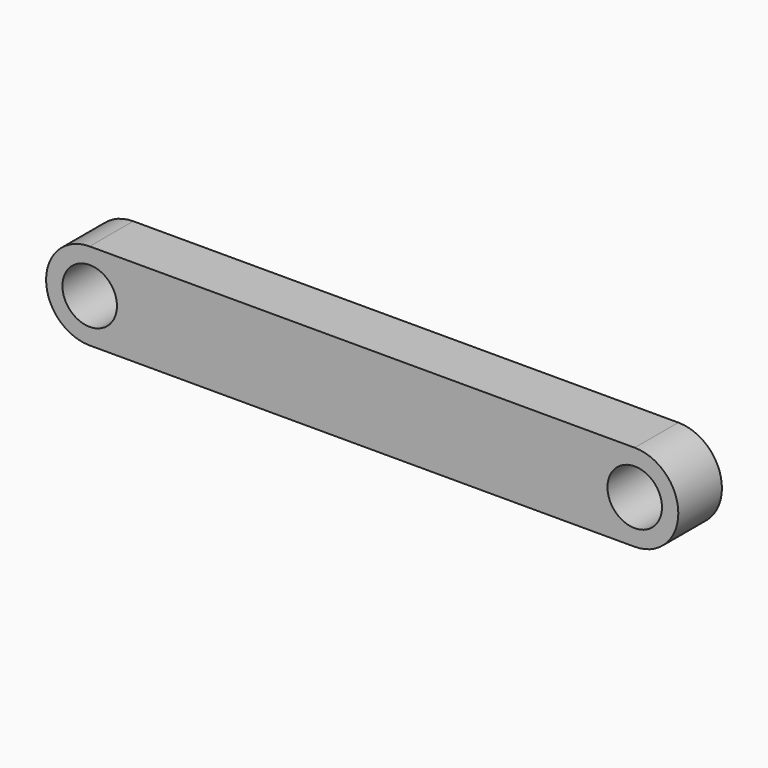
from build123d import *

# Parameters (mm, degrees)
F0_R     = 2.5
F1_DEPTH = 5


with BuildPart() as f1:
    # F0 (on Front) → F1 (new body)
    with BuildSketch(Plane.XZ):
        with BuildLine():
            Line((0, 4), (-25, 4))
            ThreePointArc((-25, 4), (-29, 0), (-25, -4))
            Line((-25, -4), (0, -4))
            Line((0, -4), (0, 4))
        make_face()
        with Locations((-25, 0)):
            Circle(F0_R, mode=Mode.SUBTRACT)
        with BuildLine():
            Line((25, 4), (0, 4))
            Line((0, 4), (0, -4))
            Line((0, -4), (25, -4))
            ThreePointArc((25, -4), (29, 0), (25, 4))
        make_face()
        with Locations((25, 0)):
            Circle(F0_R, mode=Mode.SUBTRACT)
    extrude(amount=F1_DEPTH)


solid = f1.part
